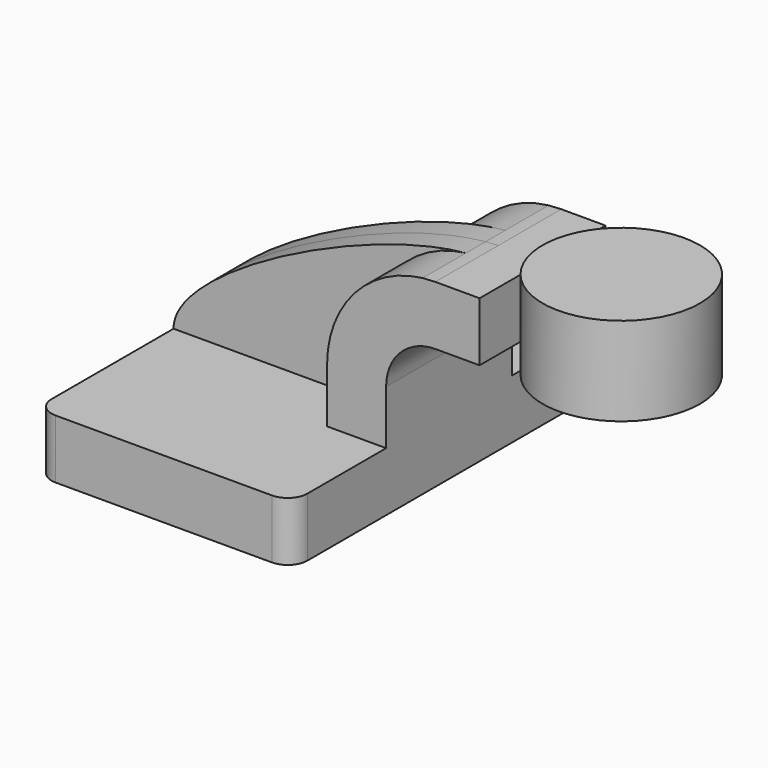
from build123d import *

# Parameters (mm, degrees)
F1_DEPTH = 63.5
F2_DEPTH = 25.4
F3_DEPTH = 7.9375
F0_W     = 25.4
F0_H     = 28.575
F5_R     = 6.35


with BuildPart() as f1:
    # F0 (on Front) → F1 (new body, symmetric)
    with BuildSketch(Plane.XZ):
        Polygon((41.275, -9.525), (41.275, 9.525), (22.225, 9.525), (-41.275, 9.525), (-41.275, -9.525), align=None)
    extrude(amount=F1_DEPTH, both=True)

    # F0 (on Front) → F2 (join, symmetric)
    with BuildSketch(Plane.XZ):
        with BuildLine():
            Line((22.225, 9.525), (41.275, 9.525))
            Line((41.275, 9.525), (41.275, 27.0002))
            ThreePointArc((41.275, 27.0002), (45.92468, 38.22552), (57.15, 42.8752))
            Line((57.15, 42.8752), (71.44845, 42.8752))
            Line((71.44845, 42.8752), (71.44845, 61.9252))
            Line((71.44845, 61.9252), (57.15, 61.9252))
            add(Edge.make_bspline(
                [(53.055411, 61.684346), (54.474528, 61.816621), (55.841747, 61.897964), (57.15, 61.9252)],
                knots=[106.924111, 106.924111, 106.924111, 106.924111, 111.504536, 111.504536, 111.504536, 111.504536], degree=3))
            ThreePointArc((53.055411, 61.684346), (31.046752, 50.203132), (22.225, 27.0002))
            Line((22.225, 27.0002), (22.225, 9.525))
        make_face()
    extrude(amount=F2_DEPTH, both=True)

    # F0 (on Front) → F3 (join, symmetric)
    with BuildSketch(Plane.XZ):
        with BuildLine():
            Line((-41.275, 9.525), (22.225, 9.525))
            Line((22.225, 9.525), (22.225, 27.0002))
            ThreePointArc((22.225, 27.0002), (31.046752, 50.203132), (53.055411, 61.684346))
            add(Edge.make_bspline(
                [(-41.275, 9.525), (-41.480782, 27.753968), (19.927938, 58.596546), (53.055411, 61.684346)],
                knots=[0, 0, 0, 0, 106.924111, 106.924111, 106.924111, 106.924111], degree=3))
        make_face()
    extrude(amount=F3_DEPTH, both=True)

    # F0 (on Front) → F4 (revolve)
    with BuildSketch(Plane.XZ):
        with Locations((109.54845, 52.3875)):
            Rectangle(F0_W, F0_H)
    revolve(axis=Axis((96.84845, 0, 52.3875), (0, 0, 1)))

    # F5
    f5_edges = [f1.edges().sort_by_distance(p)[0] for p in [
        (-41.275, -63.5, 0),
        (41.275, -63.5, 0),
        (41.275, 63.5, 0),
        (-41.275, 63.5, 0),
    ]]
    fillet(f5_edges, radius=F5_R)


solid = f1.part
